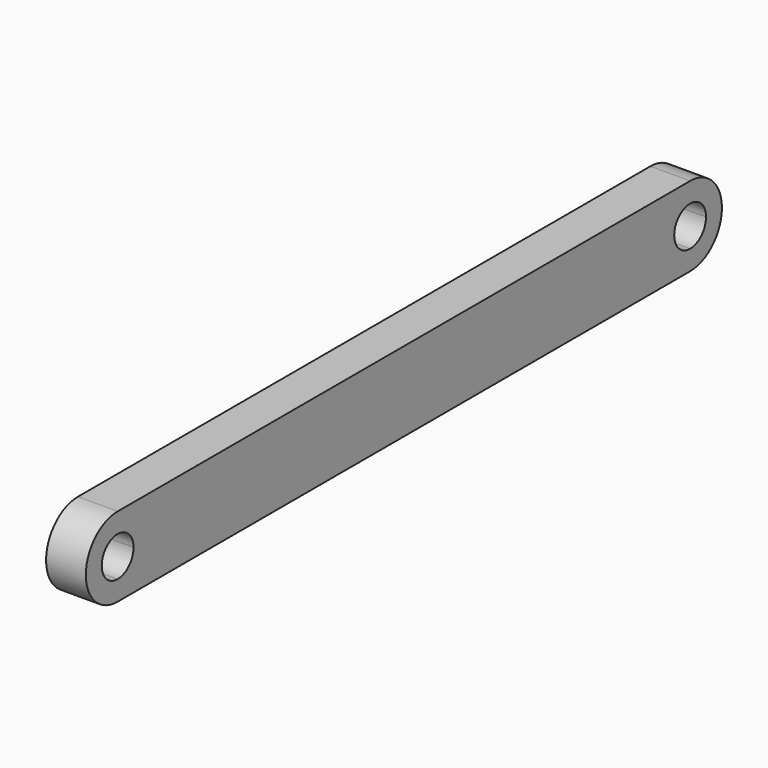
from build123d import *

# Parameters (mm, degrees)
F1_DEPTH = 25.4


with BuildPart() as f1:
    # F0 (on Right) → F1 (new body)
    with BuildSketch(Plane.YZ):
        with BuildLine():
            ThreePointArc((-37.6594869553, -4.7487942502), (-45.0989747132, 13.2117179919), (-63.0594869553, 20.6512057498))
            Line((-63.0594869553, 20.6512057498), (-63.0594869553, 7.9512057498))
            ThreePointArc((-63.0594869553, 7.9512057498), (-54.0792308342, 4.2314618709), (-50.3594869553, -4.7487942502))
            ThreePointArc((-50.3594869553, -4.7487942502), (-54.0792308342, -13.7290503713), (-63.0594869553, -17.4487942502))
            Line((-63.0594869553, -17.4487942502), (-63.0594869553, -30.1487942502))
            ThreePointArc((-63.0594869553, -30.1487942502), (-45.0989747132, -22.7093064923), (-37.6594869553, -4.7487942502))
        make_face()
        with BuildLine():
            Line((394.1405130447, 20.6512057498), (-63.0594869553, 20.6512057498))
            ThreePointArc((-63.0594869553, 20.6512057498), (-45.0989747132, 13.2117179919), (-37.6594869553, -4.7487942502))
            ThreePointArc((-37.6594869553, -4.7487942502), (-45.0989747132, -22.7093064923), (-63.0594869553, -30.1487942502))
            Line((-63.0594869553, -30.1487942502), (394.1405130447, -30.1487942502))
            ThreePointArc((394.1405130447, -30.1487942502), (368.7405130447, -4.7487942502), (394.1405130447, 20.6512057498))
        make_face()
        with BuildLine():
            Line((-63.0594869553, 7.9512057498), (-63.0594869553, 20.6512057498))
            ThreePointArc((-63.0594869553, 20.6512057498), (-88.4594869553, -4.7487942502), (-63.0594869553, -30.1487942502))
            Line((-63.0594869553, -30.1487942502), (-63.0594869553, -17.4487942502))
            ThreePointArc((-63.0594869553, -17.4487942502), (-75.7594869553, -4.7487942502), (-63.0594869553, 7.9512057498))
        make_face()
        with BuildLine():
            ThreePointArc((419.5405130447, -4.7487942502), (412.1010252868, 13.2117179919), (394.1405130447, 20.6512057498))
            Line((394.1405130447, 20.6512057498), (394.1405130447, 7.9512057498))
            ThreePointArc((394.1405130447, 7.9512057498), (403.1207691658, 4.2314618709), (406.8405130447, -4.7487942502))
            ThreePointArc((406.8405130447, -4.7487942502), (403.1207691658, -13.7290503713), (394.1405130447, -17.4487942502))
            Line((394.1405130447, -17.4487942502), (394.1405130447, -30.1487942502))
            ThreePointArc((394.1405130447, -30.1487942502), (412.1010252868, -22.7093064923), (419.5405130447, -4.7487942502))
        make_face()
        with BuildLine():
            Line((394.1405130447, 7.9512057498), (394.1405130447, 20.6512057498))
            ThreePointArc((394.1405130447, 20.6512057498), (368.7405130447, -4.7487942502), (394.1405130447, -30.1487942502))
            Line((394.1405130447, -30.1487942502), (394.1405130447, -17.4487942502))
            ThreePointArc((394.1405130447, -17.4487942502), (381.4405130447, -4.7487942502), (394.1405130447, 7.9512057498))
        make_face()
    extrude(amount=F1_DEPTH)


solid = f1.part
